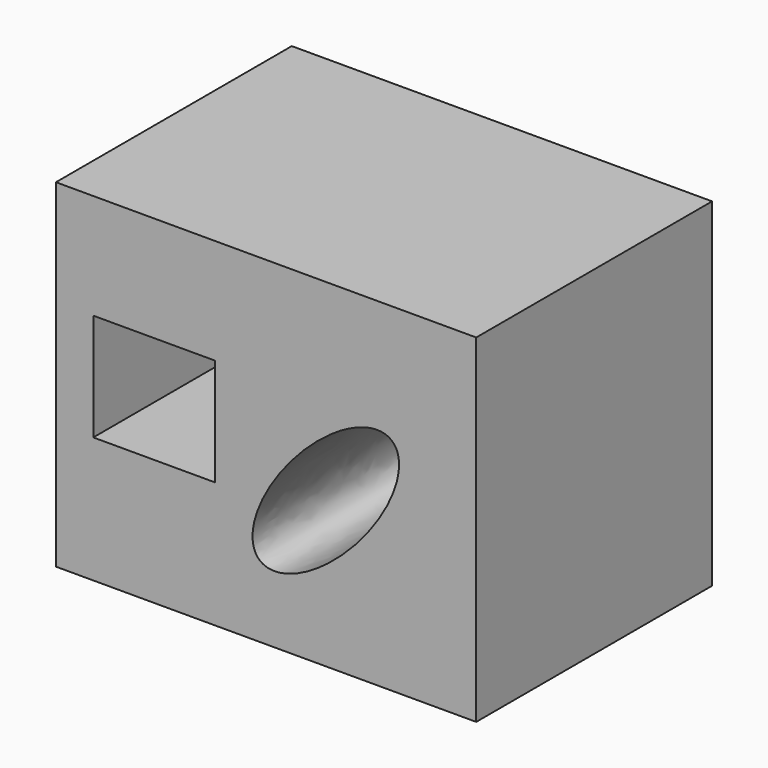
from build123d import *

# Parameters (mm, degrees)
F0_W     = 36.21218
F0_H     = 29.160332
F0_W_2   = 10.49491
F0_H_2   = 9.236813
F1_DEPTH = 25.4


with BuildPart() as f1:
    # F0 (on Front) → F1 (new body)
    with BuildSketch(Plane.XZ):
        with Locations((-45.999823, 56.319715)):
            Rectangle(F0_W, F0_H)
        with BuildLine():
            add(Edge.make_bspline(
                [(-46.577437, 47.959008), (-41.966774, 43.809412), (-35.686771, 55.423475), (-29.406767, 67.037537), (-40.297434, 59.57307), (-51.1881, 52.108603), (-46.577437, 47.959008)],
                knots=[0, 0, 0, 2.094395, 2.094395, 4.18879, 4.18879, 6.283185, 6.283185, 6.283185], degree=2, weights=[1, 0.5, 1, 0.5, 1, 0.5, 1]))
        make_face(mode=Mode.SUBTRACT)
        with Locations((-55.639032, 57.207502)):
            Rectangle(F0_W_2, F0_H_2, mode=Mode.SUBTRACT)
    extrude(amount=F1_DEPTH)


solid = f1.part
